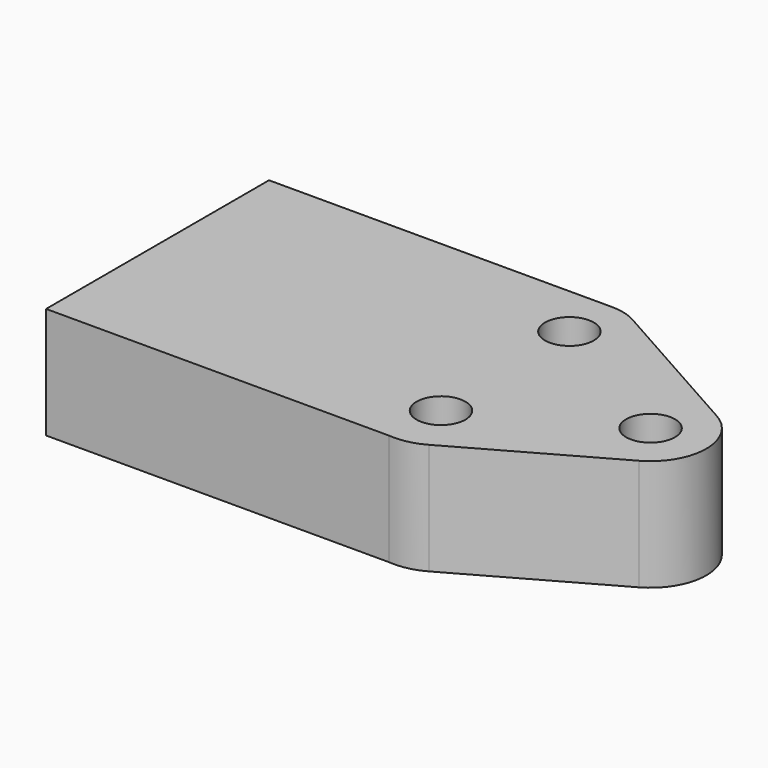
from build123d import *

# Parameters (mm, degrees)
F0_R     = 5.5626
F1_DEPTH = 25.4


with BuildPart() as f1:
    # F0 (on Top) → F1 (new body)
    with BuildSketch(Plane.XY):
        with BuildLine():
            Line((78.160428, 63.5), (0, 63.5))
            Line((0, 63.5), (0, 0))
            Line((0, 0), (78.160428, 0))
            ThreePointArc((78.160428, 0), (69.525671, 4.28997), (66.04, 13.279572))
            Line((66.04, 13.279572), (66.04, 51.379572))
            ThreePointArc((66.04, 51.379572), (69.589991, 59.950009), (78.160428, 63.5))
        make_face()
        with BuildLine():
            ThreePointArc((84.098042, 61.946005), (81.229229, 63.105067), (78.160428, 63.5))
            ThreePointArc((78.160428, 63.5), (69.589991, 59.950009), (66.04, 51.379572))
            Line((66.04, 51.379572), (66.04, 13.279572))
            ThreePointArc((66.04, 13.279572), (69.525671, 4.28997), (78.160428, 0))
            ThreePointArc((78.160428, 0), (82.159702, 0.238573), (85.907615, 1.654291))
            Line((85.907615, 1.654291), (118.946738, 20.220023))
            ThreePointArc((118.946738, 20.220023), (125.4252, 31.29172), (118.946738, 42.363416))
            Line((118.946738, 42.363416), (84.098042, 61.946005))
        make_face()
        with Locations((79.375, 13.279572)):
            Circle(F0_R, mode=Mode.SUBTRACT)
        with Locations((112.7252, 31.29172)):
            Circle(F0_R, mode=Mode.SUBTRACT)
        with Locations((78.160428, 51.379572)):
            Circle(F0_R, mode=Mode.SUBTRACT)
    extrude(amount=F1_DEPTH)


solid = f1.part
